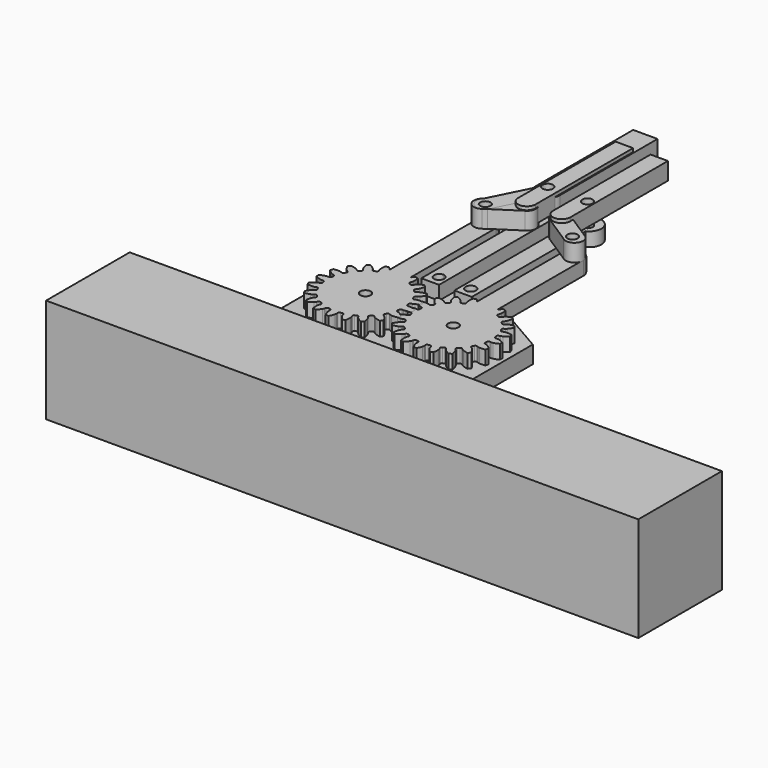
from build123d import *

# Parameters (mm, degrees)
BOX_W                      = 170
BOX_H                      = 30
BOX_DEPTH                  = 30
CYLINDER002_R              = 1.5
CYLINDER002_DEPTH          = 15
CYLINDER_R                 = 1.5
CYLINDER_DEPTH             = 15
EXTRUDE002_DEPTH           = 5
CYLINDER004_R              = 1.5
CYLINDER004_DEPTH          = 20
CYLINDER003_R              = 1.5
CYLINDER003_DEPTH          = 15
EXTRUDE005_DEPTH           = 5
EXTRUDE004_DEPTH           = 4
EXTRUDE007_DEPTH           = 5
EXTRUDE006_DEPTH           = 5
EXTRUDE003_DEPTH           = 4
CYLINDER001_R              = 1.5
CYLINDER001_DEPTH          = 15
EXTRUDE_DEPTH              = 4
CYLINDER005_R              = 3.5
CYLINDER005_DEPTH          = 4
CYLINDER007_R              = 1.5
CYLINDER007_DEPTH          = 20
CYLINDER008_R              = 3.5
CYLINDER008_DEPTH          = 4
CYLINDER006_R              = 1.5
CYLINDER006_DEPTH          = 15
EXTRUDE010_DEPTH           = 4
CUT022_PLACEMENT_ANGLE     = 180
SKETCH006_R                = 1.5
EXTRUDE008_DEPTH           = 5
EXTRUDE008_PLACEMENT_ANGLE = 4
SKETCH007_R                = 1.65
EXTRUDE009_DEPTH           = 5


with BuildPart() as cube:
    # Box → Box (new body)
    with BuildSketch(Plane(origin=(-41, -69, 0), x_dir=(1, 0, 0), z_dir=(0, 0, 1))):
        with Locations((85, 15)):
            Rectangle(BOX_W, BOX_H)
    extrude(amount=BOX_DEPTH)


with BuildPart() as cylinder002:
    # Cylinder002 → Cylinder002 (new body)
    with BuildSketch(Plane(origin=(4.5, 26.5, -2), x_dir=(1, 0, 0), z_dir=(0, 0, 1))):
        Circle(CYLINDER002_R)
    extrude(amount=CYLINDER002_DEPTH)


with BuildPart() as part_mirroring007:
    # Part__Mirroring007: instance of Cylinder002
    add(cylinder002.part.mirror(Plane(origin=(0, 0, 0), x_dir=(0, -1, 0), z_dir=(1, 0, 0))))


with BuildPart() as hueco_tornillo:
    # Cylinder → Cylinder (new body)
    with BuildSketch(Plane(origin=(12.5, 10, -1), x_dir=(1, 0, 0), z_dir=(0, 0, 1))):
        Circle(CYLINDER_R)
    extrude(amount=CYLINDER_DEPTH)


with BuildPart() as part_mirroring005:
    # Part__Mirroring005: instance of Hueco tornillo
    add(hueco_tornillo.part.mirror(Plane(origin=(0, 0, 0), x_dir=(0, -1, 0), z_dir=(1, 0, 0))))


with BuildPart() as obj1:
    # Sketch001 → Extrude002 (new body)
    with BuildSketch(Plane.XY):
        Polygon((-27.5, -20), (-27.5, 20), (-10, 30.10363), (10, 30.10363), (27.5, 20), (27.5, -20), align=None)
    extrude(amount=EXTRUDE002_DEPTH)

    # Cut001: cut Hueco tornillo
    add(hueco_tornillo.part, mode=Mode.SUBTRACT)

    # Cut002: cut Part__Mirroring005
    add(part_mirroring005.part, mode=Mode.SUBTRACT)

    # Cut005: cut Cylinder002
    add(cylinder002.part, mode=Mode.SUBTRACT)

    # Cut007: cut Part__Mirroring007
    add(part_mirroring007.part, mode=Mode.SUBTRACT)


with BuildPart() as tornillo001:
    # Cylinder004 → Cylinder004 (new body)
    with BuildSketch(Plane(origin=(5.7, 66.9, 2), x_dir=(1, 0, 0), z_dir=(0, 0, 1))):
        Circle(CYLINDER004_R)
    extrude(amount=CYLINDER004_DEPTH)


with BuildPart() as tornillo:
    # Cylinder003 → Cylinder003 (new body)
    with BuildSketch(Plane(origin=(12.5, 53, 4), x_dir=(1, 0, 0), z_dir=(0, 0, 1))):
        Circle(CYLINDER003_R)
    extrude(amount=CYLINDER003_DEPTH)


with BuildPart() as obj2:
    # Sketch003 → Extrude005 (new body)
    with BuildSketch(Plane.XY.offset(12)):
        with BuildLine():
            Line((6.265841, 59.984875), (14.149073, 54.864849))
            ThreePointArc((11.315443, 50.797342), (15.05131, 51.215528), (14.149073, 54.864849))
            Line((3.432211, 55.917368), (11.315443, 50.797342))
            ThreePointArc((6.265841, 59.984875), (2.529975, 59.566689), (3.432211, 55.917368))
        make_face()
    extrude(amount=EXTRUDE005_DEPTH)


with BuildPart() as obj2_1:
    # Extrude005 placement: moved
    add(obj2.part.moved(Location((0.18891, 0.183964, -3))))


with BuildPart() as obj3:
    # Cut010 base: copy of obj2
    add(obj2_1.part)

    # Cut010: cut Tornillo
    add(tornillo.part, mode=Mode.SUBTRACT)

    # Cut013: cut Tornillo001
    add(tornillo001.part, mode=Mode.SUBTRACT)


with BuildPart() as part_mirroring009:
    # Part__Mirroring009: instance of Tornillo001
    add(tornillo001.part.mirror(Plane(origin=(0, 0, 0), x_dir=(0, -1, 0), z_dir=(1, 0, 0))))


with BuildPart() as obj4:
    # Sketch002 → Extrude004 (new body)
    with BuildSketch(Plane.XY):
        with BuildLine():
            Line((50.695321, 0), (50.695321, 45))
            ThreePointArc((55.695321, 45), (53.195321, 47.499985), (50.695321, 45))
            Line((55.695321, 0), (55.695321, 45))
            Line((50.695321, 0), (55.695321, 0))
        make_face()
    extrude(amount=EXTRUDE004_DEPTH)


with BuildPart() as obj4_1:
    # Extrude004 placement: moved
    add(obj4.part.moved(Location((-48.5, 23.5, 5))))


with BuildPart() as obj5:
    # Part__Mirroring002: instance of obj4
    add(obj4_1.part.mirror(Plane(origin=(0, 0, 0), x_dir=(0, -1, 0), z_dir=(1, 0, 0))))

    # Cut008: cut Part__Mirroring007
    add(part_mirroring007.part, mode=Mode.SUBTRACT)

    # Cut016: cut Part__Mirroring009
    add(part_mirroring009.part, mode=Mode.SUBTRACT)


with BuildPart() as obj6:
    # Sketch005 → Extrude007 (new body)
    with BuildSketch(Plane.XY.offset(12)):
        with BuildLine():
            Line((6.265841, 59.984875), (14.149073, 54.864849))
            ThreePointArc((11.315443, 50.797342), (15.05131, 51.215528), (14.149073, 54.864849))
            Line((3.432211, 55.917368), (11.315443, 50.797342))
            ThreePointArc((6.265841, 59.984875), (2.529975, 59.566689), (3.432211, 55.917368))
        make_face()
    extrude(amount=EXTRUDE007_DEPTH)


with BuildPart() as obj6_1:
    # Extrude007 placement: moved
    add(obj6.part.moved(Location((0.18891, 0.183964, -3))))


with BuildPart() as obj7:
    # Sketch004 → Extrude006 (new body)
    with BuildSketch(Plane.XY):
        with BuildLine():
            Line((-2.5, 17.5), (2.5, 17.5))
            Line((2.5, 17.5), (2.5, -17.5))
            ThreePointArc((-2.5, -17.5), (0, -20), (2.5, -17.5))
            Line((-2.5, -17.5), (-2.5, 17.5))
        make_face()
    extrude(amount=EXTRUDE006_DEPTH)


with BuildPart() as obj7_1:
    # Extrude006 placement: moved
    add(obj7.part.moved(Location((5, 76, 10))))

    # Cut: cut obj6
    add(obj6_1.part, mode=Mode.SUBTRACT)


with BuildPart() as obj8:
    # Part__Mirroring004: instance of obj7
    add(obj7_1.part.mirror(Plane(origin=(0, 0, 0), x_dir=(0, -1, 0), z_dir=(1, 0, 0))))

    # Cut018: cut Part__Mirroring009
    add(part_mirroring009.part, mode=Mode.SUBTRACT)


with BuildPart() as obj9:
    # Sketch → Extrude003 (new body)
    with BuildSketch(Plane.XY):
        with BuildLine():
            Line((71.932891, 0), (71.932891, 40))
            ThreePointArc((77.932891, 40), (74.932891, 43), (71.932891, 40))
            Line((77.932891, 0), (77.932891, 40))
            Line((71.932891, 0), (77.932891, 0))
        make_face()
    extrude(amount=EXTRUDE003_DEPTH)


with BuildPart() as obj9_1:
    # Extrude003 placement: moved
    add(obj9.part.moved(Location((-62.5, 13, 5))))


with BuildPart() as fal_der_tornillo:
    # Cut009 base: copy of obj9
    add(obj9_1.part)

    # Cut009: cut Tornillo
    add(tornillo.part, mode=Mode.SUBTRACT)


with BuildPart() as cylinder:
    # Cylinder001 → Cylinder001 (new body)
    with BuildSketch(Plane(origin=(12.5, 10, -1), x_dir=(1, 0, 0), z_dir=(0, 0, 1))):
        Circle(CYLINDER001_R)
    extrude(amount=CYLINDER001_DEPTH)


with BuildPart() as extrude_body:
    # InvoluteGear → Extrude (new body)
    with BuildSketch(Plane.XY):
        with BuildLine():
            Line((11.346894, -1.063398), (11.717318, -1.097171))
            add(Edge.make_bspline(
                [(11.717318, -1.097171), (11.776361, -1.099058), (11.954079, -1.097525), (12.250595, -1.033325)],
                knots=[0, 0, 0, 0, 1, 1, 1, 1], degree=3))
            add(Edge.make_bspline(
                [(12.250595, -1.033325), (12.605293, -0.955347), (13.115728, -0.788419), (13.744527, -0.433709)],
                knots=[0, 0, 0, 0, 1, 1, 1, 1], degree=3))
            ThreePointArc((13.744527, -0.433709), (13.751369, 0), (13.744527, 0.433709))
            add(Edge.make_bspline(
                [(13.744527, 0.433709), (13.115728, 0.788419), (12.605293, 0.955347), (12.250595, 1.033325)],
                knots=[0, 0, 0, 0, 1, 1, 1, 1], degree=3))
            add(Edge.make_bspline(
                [(12.250595, 1.033325), (11.954079, 1.097525), (11.776361, 1.099058), (11.717318, 1.097171)],
                knots=[0, 0, 0, 0, 1, 1, 1, 1], degree=3))
            Line((11.717318, 1.097171), (11.346894, 1.063398))
            ThreePointArc((11.346894, 1.063398), (11.011703, 1.162977), (10.838693, 1.466846))
            ThreePointArc((10.838693, 1.466846), (10.802841, 1.711002), (10.76149, 1.954287))
            ThreePointArc((10.76149, 1.954287), (10.832131, 2.296747), (11.120145, 2.495031))
            Line((11.120145, 2.495031), (11.482876, 2.577378))
            add(Edge.make_bspline(
                [(11.482876, 2.577378), (11.539612, 2.593829), (11.708158, 2.650205), (11.970323, 2.802892)],
                knots=[0, 0, 0, 0, 1, 1, 1, 1], degree=3))
            add(Edge.make_bspline(
                [(11.970323, 2.802892), (12.283565, 2.986661), (12.717433, 3.303152), (13.205845, 3.83481)],
                knots=[0, 0, 0, 0, 1, 1, 1, 1], degree=3))
            ThreePointArc((13.205845, 3.83481), (13.078329, 4.249407), (12.937798, 4.659774))
            add(Edge.make_bspline(
                [(12.937798, 4.659774), (12.230164, 4.802814), (11.693128, 4.803839), (11.331693, 4.768393)],
                knots=[0, 0, 0, 0, 1, 1, 1, 1], degree=3))
            add(Edge.make_bspline(
                [(11.331693, 4.768393), (11.029851, 4.737822), (10.860357, 4.684362), (10.804787, 4.664322)],
                knots=[0, 0, 0, 0, 1, 1, 1, 1], degree=3))
            Line((10.804787, 4.664322), (10.462929, 4.517735))
            ThreePointArc((10.462929, 4.517735), (10.113372, 4.50886), (9.854929, 4.744394))
            ThreePointArc((9.854929, 4.744394), (9.745384, 4.965521), (9.630878, 5.18412))
            ThreePointArc((9.630878, 5.18412), (9.592235, 5.531648), (9.80488, 5.809229))
            Line((9.80488, 5.809229), (10.124411, 5.999636))
            add(Edge.make_bspline(
                [(10.124411, 5.999636), (10.173286, 6.032814), (10.316162, 6.138515), (10.518313, 6.364742)],
                knots=[0, 0, 0, 0, 1, 1, 1, 1], degree=3))
            add(Edge.make_bspline(
                [(10.518313, 6.364742), (10.759435, 6.636313), (11.074268, 7.071387), (11.374484, 7.727952)],
                knots=[0, 0, 0, 0, 1, 1, 1, 1], degree=3))
            ThreePointArc((11.374484, 7.727952), (11.125091, 8.082852), (10.864628, 8.429708))
            add(Edge.make_bspline(
                [(10.864628, 8.429708), (10.147426, 8.347076), (9.636357, 8.182097), (9.303566, 8.036697)],
                knots=[0, 0, 0, 0, 1, 1, 1, 1], degree=3))
            add(Edge.make_bspline(
                [(9.303566, 8.036697), (9.025944, 7.914348), (8.881266, 7.811128), (8.834608, 7.774897)],
                knots=[0, 0, 0, 0, 1, 1, 1, 1], degree=3))
            Line((8.834608, 7.774897), (8.55478, 7.529844))
            ThreePointArc((8.55478, 7.529844), (8.225074, 7.413384), (7.906496, 7.557528))
            ThreePointArc((7.906496, 7.557528), (7.73398, 7.73398), (7.557528, 7.906496))
            ThreePointArc((7.557528, 7.906496), (7.413384, 8.225074), (7.529844, 8.55478))
            Line((7.529844, 8.55478), (7.774897, 8.834608))
            add(Edge.make_bspline(
                [(7.774897, 8.834608), (7.811128, 8.881266), (7.914348, 9.025944), (8.036697, 9.303566)],
                knots=[0, 0, 0, 0, 1, 1, 1, 1], degree=3))
            add(Edge.make_bspline(
                [(8.036697, 9.303566), (8.182097, 9.636357), (8.347076, 10.147426), (8.429708, 10.864628)],
                knots=[0, 0, 0, 0, 1, 1, 1, 1], degree=3))
            ThreePointArc((8.429708, 10.864628), (8.082852, 11.125091), (7.727952, 11.374484))
            add(Edge.make_bspline(
                [(7.727952, 11.374484), (7.071387, 11.074268), (6.636313, 10.759435), (6.364742, 10.518313)],
                knots=[0, 0, 0, 0, 1, 1, 1, 1], degree=3))
            add(Edge.make_bspline(
                [(6.364742, 10.518313), (6.138515, 10.316162), (6.032814, 10.173286), (5.999636, 10.124411)],
                knots=[0, 0, 0, 0, 1, 1, 1, 1], degree=3))
            Line((5.999636, 10.124411), (5.809229, 9.80488))
            ThreePointArc((5.809229, 9.80488), (5.531648, 9.592235), (5.18412, 9.630878))
            ThreePointArc((5.18412, 9.630878), (4.965521, 9.745384), (4.744394, 9.854929))
            ThreePointArc((4.744394, 9.854929), (4.50886, 10.113372), (4.517735, 10.462929))
            Line((4.517735, 10.462929), (4.664322, 10.804787))
            add(Edge.make_bspline(
                [(4.664322, 10.804787), (4.684362, 10.860357), (4.737822, 11.029851), (4.768393, 11.331693)],
                knots=[0, 0, 0, 0, 1, 1, 1, 1], degree=3))
            add(Edge.make_bspline(
                [(4.768393, 11.331693), (4.803839, 11.693128), (4.802814, 12.230164), (4.659774, 12.937798)],
                knots=[0, 0, 0, 0, 1, 1, 1, 1], degree=3))
            ThreePointArc((4.659774, 12.937798), (4.249407, 13.078329), (3.83481, 13.205845))
            add(Edge.make_bspline(
                [(3.83481, 13.205845), (3.303152, 12.717433), (2.986661, 12.283565), (2.802892, 11.970323)],
                knots=[0, 0, 0, 0, 1, 1, 1, 1], degree=3))
            add(Edge.make_bspline(
                [(2.802892, 11.970323), (2.650205, 11.708158), (2.593829, 11.539612), (2.577378, 11.482876)],
                knots=[0, 0, 0, 0, 1, 1, 1, 1], degree=3))
            Line((2.577378, 11.482876), (2.495031, 11.120145))
            ThreePointArc((2.495031, 11.120145), (2.296747, 10.832131), (1.954287, 10.76149))
            ThreePointArc((1.954287, 10.76149), (1.711002, 10.802841), (1.466846, 10.838693))
            ThreePointArc((1.466846, 10.838693), (1.162977, 11.011703), (1.063398, 11.346894))
            Line((1.063398, 11.346894), (1.097171, 11.717318))
            add(Edge.make_bspline(
                [(1.097171, 11.717318), (1.099058, 11.776361), (1.097525, 11.954079), (1.033325, 12.250595)],
                knots=[0, 0, 0, 0, 1, 1, 1, 1], degree=3))
            add(Edge.make_bspline(
                [(1.033325, 12.250595), (0.955347, 12.605293), (0.788419, 13.115728), (0.433709, 13.744527)],
                knots=[0, 0, 0, 0, 1, 1, 1, 1], degree=3))
            ThreePointArc((0.433709, 13.744527), (0, 13.751369), (-0.433709, 13.744527))
            add(Edge.make_bspline(
                [(-0.433709, 13.744527), (-0.788419, 13.115728), (-0.955347, 12.605293), (-1.033325, 12.250595)],
                knots=[0, 0, 0, 0, 1, 1, 1, 1], degree=3))
            add(Edge.make_bspline(
                [(-1.033325, 12.250595), (-1.097525, 11.954079), (-1.099058, 11.776361), (-1.097171, 11.717318)],
                knots=[0, 0, 0, 0, 1, 1, 1, 1], degree=3))
            Line((-1.097171, 11.717318), (-1.063398, 11.346894))
            ThreePointArc((-1.063398, 11.346894), (-1.162977, 11.011703), (-1.466846, 10.838693))
            ThreePointArc((-1.466846, 10.838693), (-1.711002, 10.802841), (-1.954287, 10.76149))
            ThreePointArc((-1.954287, 10.76149), (-2.296747, 10.832131), (-2.495031, 11.120145))
            Line((-2.495031, 11.120145), (-2.577378, 11.482876))
            add(Edge.make_bspline(
                [(-2.577378, 11.482876), (-2.593829, 11.539612), (-2.650205, 11.708158), (-2.802892, 11.970323)],
                knots=[0, 0, 0, 0, 1, 1, 1, 1], degree=3))
            add(Edge.make_bspline(
                [(-2.802892, 11.970323), (-2.986661, 12.283565), (-3.303152, 12.717433), (-3.83481, 13.205845)],
                knots=[0, 0, 0, 0, 1, 1, 1, 1], degree=3))
            ThreePointArc((-3.83481, 13.205845), (-4.249407, 13.078329), (-4.659774, 12.937798))
            add(Edge.make_bspline(
                [(-4.659774, 12.937798), (-4.802814, 12.230164), (-4.803839, 11.693128), (-4.768393, 11.331693)],
                knots=[0, 0, 0, 0, 1, 1, 1, 1], degree=3))
            add(Edge.make_bspline(
                [(-4.768393, 11.331693), (-4.737822, 11.029851), (-4.684362, 10.860357), (-4.664322, 10.804787)],
                knots=[0, 0, 0, 0, 1, 1, 1, 1], degree=3))
            Line((-4.664322, 10.804787), (-4.517735, 10.462929))
            ThreePointArc((-4.517735, 10.462929), (-4.50886, 10.113372), (-4.744394, 9.854929))
            ThreePointArc((-4.744394, 9.854929), (-4.965521, 9.745384), (-5.18412, 9.630878))
            ThreePointArc((-5.18412, 9.630878), (-5.531648, 9.592235), (-5.809229, 9.80488))
            Line((-5.809229, 9.80488), (-5.999636, 10.124411))
            add(Edge.make_bspline(
                [(-5.999636, 10.124411), (-6.032814, 10.173286), (-6.138515, 10.316162), (-6.364742, 10.518313)],
                knots=[0, 0, 0, 0, 1, 1, 1, 1], degree=3))
            add(Edge.make_bspline(
                [(-6.364742, 10.518313), (-6.636313, 10.759435), (-7.071387, 11.074268), (-7.727952, 11.374484)],
                knots=[0, 0, 0, 0, 1, 1, 1, 1], degree=3))
            ThreePointArc((-7.727952, 11.374484), (-8.082852, 11.125091), (-8.429708, 10.864628))
            add(Edge.make_bspline(
                [(-8.429708, 10.864628), (-8.347076, 10.147426), (-8.182097, 9.636357), (-8.036697, 9.303566)],
                knots=[0, 0, 0, 0, 1, 1, 1, 1], degree=3))
            add(Edge.make_bspline(
                [(-8.036697, 9.303566), (-7.914348, 9.025944), (-7.811128, 8.881266), (-7.774897, 8.834608)],
                knots=[0, 0, 0, 0, 1, 1, 1, 1], degree=3))
            Line((-7.774897, 8.834608), (-7.529844, 8.55478))
            ThreePointArc((-7.529844, 8.55478), (-7.413384, 8.225074), (-7.557528, 7.906496))
            ThreePointArc((-7.557528, 7.906496), (-7.73398, 7.73398), (-7.906496, 7.557528))
            ThreePointArc((-7.906496, 7.557528), (-8.225074, 7.413384), (-8.55478, 7.529844))
            Line((-8.55478, 7.529844), (-8.834608, 7.774897))
            add(Edge.make_bspline(
                [(-8.834608, 7.774897), (-8.881266, 7.811128), (-9.025944, 7.914348), (-9.303566, 8.036697)],
                knots=[0, 0, 0, 0, 1, 1, 1, 1], degree=3))
            add(Edge.make_bspline(
                [(-9.303566, 8.036697), (-9.636357, 8.182097), (-10.147426, 8.347076), (-10.864628, 8.429708)],
                knots=[0, 0, 0, 0, 1, 1, 1, 1], degree=3))
            ThreePointArc((-10.864628, 8.429708), (-11.125091, 8.082852), (-11.374484, 7.727952))
            add(Edge.make_bspline(
                [(-11.374484, 7.727952), (-11.074268, 7.071387), (-10.759435, 6.636313), (-10.518313, 6.364742)],
                knots=[0, 0, 0, 0, 1, 1, 1, 1], degree=3))
            add(Edge.make_bspline(
                [(-10.518313, 6.364742), (-10.316162, 6.138515), (-10.173286, 6.032814), (-10.124411, 5.999636)],
                knots=[0, 0, 0, 0, 1, 1, 1, 1], degree=3))
            Line((-10.124411, 5.999636), (-9.80488, 5.809229))
            ThreePointArc((-9.80488, 5.809229), (-9.592235, 5.531648), (-9.630878, 5.18412))
            ThreePointArc((-9.630878, 5.18412), (-9.745384, 4.965521), (-9.854929, 4.744394))
            ThreePointArc((-9.854929, 4.744394), (-10.113372, 4.50886), (-10.462929, 4.517735))
            Line((-10.462929, 4.517735), (-10.804787, 4.664322))
            add(Edge.make_bspline(
                [(-10.804787, 4.664322), (-10.860357, 4.684362), (-11.029851, 4.737822), (-11.331693, 4.768393)],
                knots=[0, 0, 0, 0, 1, 1, 1, 1], degree=3))
            add(Edge.make_bspline(
                [(-11.331693, 4.768393), (-11.693128, 4.803839), (-12.230164, 4.802814), (-12.937798, 4.659774)],
                knots=[0, 0, 0, 0, 1, 1, 1, 1], degree=3))
            ThreePointArc((-12.937798, 4.659774), (-13.078329, 4.249407), (-13.205845, 3.83481))
            add(Edge.make_bspline(
                [(-13.205845, 3.83481), (-12.717433, 3.303152), (-12.283565, 2.986661), (-11.970323, 2.802892)],
                knots=[0, 0, 0, 0, 1, 1, 1, 1], degree=3))
            add(Edge.make_bspline(
                [(-11.970323, 2.802892), (-11.708158, 2.650205), (-11.539612, 2.593829), (-11.482876, 2.577378)],
                knots=[0, 0, 0, 0, 1, 1, 1, 1], degree=3))
            Line((-11.482876, 2.577378), (-11.120145, 2.495031))
            ThreePointArc((-11.120145, 2.495031), (-10.832131, 2.296747), (-10.76149, 1.954287))
            ThreePointArc((-10.76149, 1.954287), (-10.802841, 1.711002), (-10.838693, 1.466846))
            ThreePointArc((-10.838693, 1.466846), (-11.011703, 1.162977), (-11.346894, 1.063398))
            Line((-11.346894, 1.063398), (-11.717318, 1.097171))
            add(Edge.make_bspline(
                [(-11.717318, 1.097171), (-11.776361, 1.099058), (-11.954079, 1.097525), (-12.250595, 1.033325)],
                knots=[0, 0, 0, 0, 1, 1, 1, 1], degree=3))
            add(Edge.make_bspline(
                [(-12.250595, 1.033325), (-12.605293, 0.955347), (-13.115728, 0.788419), (-13.744527, 0.433709)],
                knots=[0, 0, 0, 0, 1, 1, 1, 1], degree=3))
            ThreePointArc((-13.744527, 0.433709), (-13.751369, 0), (-13.744527, -0.433709))
            add(Edge.make_bspline(
                [(-13.744527, -0.433709), (-13.115728, -0.788419), (-12.605293, -0.955347), (-12.250595, -1.033325)],
                knots=[0, 0, 0, 0, 1, 1, 1, 1], degree=3))
            add(Edge.make_bspline(
                [(-12.250595, -1.033325), (-11.954079, -1.097525), (-11.776361, -1.099058), (-11.717318, -1.097171)],
                knots=[0, 0, 0, 0, 1, 1, 1, 1], degree=3))
            Line((-11.717318, -1.097171), (-11.346894, -1.063398))
            ThreePointArc((-11.346894, -1.063398), (-11.011703, -1.162977), (-10.838693, -1.466846))
            ThreePointArc((-10.838693, -1.466846), (-10.802841, -1.711002), (-10.76149, -1.954287))
            ThreePointArc((-10.76149, -1.954287), (-10.832131, -2.296747), (-11.120145, -2.495031))
            Line((-11.120145, -2.495031), (-11.482876, -2.577378))
            add(Edge.make_bspline(
                [(-11.482876, -2.577378), (-11.539612, -2.593829), (-11.708158, -2.650205), (-11.970323, -2.802892)],
                knots=[0, 0, 0, 0, 1, 1, 1, 1], degree=3))
            add(Edge.make_bspline(
                [(-11.970323, -2.802892), (-12.283565, -2.986661), (-12.717433, -3.303152), (-13.205845, -3.83481)],
                knots=[0, 0, 0, 0, 1, 1, 1, 1], degree=3))
            ThreePointArc((-13.205845, -3.83481), (-13.078329, -4.249407), (-12.937798, -4.659774))
            add(Edge.make_bspline(
                [(-12.937798, -4.659774), (-12.230164, -4.802814), (-11.693128, -4.803839), (-11.331693, -4.768393)],
                knots=[0, 0, 0, 0, 1, 1, 1, 1], degree=3))
            add(Edge.make_bspline(
                [(-11.331693, -4.768393), (-11.029851, -4.737822), (-10.860357, -4.684362), (-10.804787, -4.664322)],
                knots=[0, 0, 0, 0, 1, 1, 1, 1], degree=3))
            Line((-10.804787, -4.664322), (-10.462929, -4.517735))
            ThreePointArc((-10.462929, -4.517735), (-10.113372, -4.50886), (-9.854929, -4.744394))
            ThreePointArc((-9.854929, -4.744394), (-9.745384, -4.965521), (-9.630878, -5.18412))
            ThreePointArc((-9.630878, -5.18412), (-9.592235, -5.531648), (-9.80488, -5.809229))
            Line((-9.80488, -5.809229), (-10.124411, -5.999636))
            add(Edge.make_bspline(
                [(-10.124411, -5.999636), (-10.173286, -6.032814), (-10.316162, -6.138515), (-10.518313, -6.364742)],
                knots=[0, 0, 0, 0, 1, 1, 1, 1], degree=3))
            add(Edge.make_bspline(
                [(-10.518313, -6.364742), (-10.759435, -6.636313), (-11.074268, -7.071387), (-11.374484, -7.727952)],
                knots=[0, 0, 0, 0, 1, 1, 1, 1], degree=3))
            ThreePointArc((-11.374484, -7.727952), (-11.125091, -8.082852), (-10.864628, -8.429708))
            add(Edge.make_bspline(
                [(-10.864628, -8.429708), (-10.147426, -8.347076), (-9.636357, -8.182097), (-9.303566, -8.036697)],
                knots=[0, 0, 0, 0, 1, 1, 1, 1], degree=3))
            add(Edge.make_bspline(
                [(-9.303566, -8.036697), (-9.025944, -7.914348), (-8.881266, -7.811128), (-8.834608, -7.774897)],
                knots=[0, 0, 0, 0, 1, 1, 1, 1], degree=3))
            Line((-8.834608, -7.774897), (-8.55478, -7.529844))
            ThreePointArc((-8.55478, -7.529844), (-8.225074, -7.413384), (-7.906496, -7.557528))
            ThreePointArc((-7.906496, -7.557528), (-7.73398, -7.73398), (-7.557528, -7.906496))
            ThreePointArc((-7.557528, -7.906496), (-7.413384, -8.225074), (-7.529844, -8.55478))
            Line((-7.529844, -8.55478), (-7.774897, -8.834608))
            add(Edge.make_bspline(
                [(-7.774897, -8.834608), (-7.811128, -8.881266), (-7.914348, -9.025944), (-8.036697, -9.303566)],
                knots=[0, 0, 0, 0, 1, 1, 1, 1], degree=3))
            add(Edge.make_bspline(
                [(-8.036697, -9.303566), (-8.182097, -9.636357), (-8.347076, -10.147426), (-8.429708, -10.864628)],
                knots=[0, 0, 0, 0, 1, 1, 1, 1], degree=3))
            ThreePointArc((-8.429708, -10.864628), (-8.082852, -11.125091), (-7.727952, -11.374484))
            add(Edge.make_bspline(
                [(-7.727952, -11.374484), (-7.071387, -11.074268), (-6.636313, -10.759435), (-6.364742, -10.518313)],
                knots=[0, 0, 0, 0, 1, 1, 1, 1], degree=3))
            add(Edge.make_bspline(
                [(-6.364742, -10.518313), (-6.138515, -10.316162), (-6.032814, -10.173286), (-5.999636, -10.124411)],
                knots=[0, 0, 0, 0, 1, 1, 1, 1], degree=3))
            Line((-5.999636, -10.124411), (-5.809229, -9.80488))
            ThreePointArc((-5.809229, -9.80488), (-5.531648, -9.592235), (-5.18412, -9.630878))
            ThreePointArc((-5.18412, -9.630878), (-4.965521, -9.745384), (-4.744394, -9.854929))
            ThreePointArc((-4.744394, -9.854929), (-4.50886, -10.113372), (-4.517735, -10.462929))
            Line((-4.517735, -10.462929), (-4.664322, -10.804787))
            add(Edge.make_bspline(
                [(-4.664322, -10.804787), (-4.684362, -10.860357), (-4.737822, -11.029851), (-4.768393, -11.331693)],
                knots=[0, 0, 0, 0, 1, 1, 1, 1], degree=3))
            add(Edge.make_bspline(
                [(-4.768393, -11.331693), (-4.803839, -11.693128), (-4.802814, -12.230164), (-4.659774, -12.937798)],
                knots=[0, 0, 0, 0, 1, 1, 1, 1], degree=3))
            ThreePointArc((-4.659774, -12.937798), (-4.249407, -13.078329), (-3.83481, -13.205845))
            add(Edge.make_bspline(
                [(-3.83481, -13.205845), (-3.303152, -12.717433), (-2.986661, -12.283565), (-2.802892, -11.970323)],
                knots=[0, 0, 0, 0, 1, 1, 1, 1], degree=3))
            add(Edge.make_bspline(
                [(-2.802892, -11.970323), (-2.650205, -11.708158), (-2.593829, -11.539612), (-2.577378, -11.482876)],
                knots=[0, 0, 0, 0, 1, 1, 1, 1], degree=3))
            Line((-2.577378, -11.482876), (-2.495031, -11.120145))
            ThreePointArc((-2.495031, -11.120145), (-2.296747, -10.832131), (-1.954287, -10.76149))
            ThreePointArc((-1.954287, -10.76149), (-1.711002, -10.802841), (-1.466846, -10.838693))
            ThreePointArc((-1.466846, -10.838693), (-1.162977, -11.011703), (-1.063398, -11.346894))
            Line((-1.063398, -11.346894), (-1.097171, -11.717318))
            add(Edge.make_bspline(
                [(-1.097171, -11.717318), (-1.099058, -11.776361), (-1.097525, -11.954079), (-1.033325, -12.250595)],
                knots=[0, 0, 0, 0, 1, 1, 1, 1], degree=3))
            add(Edge.make_bspline(
                [(-1.033325, -12.250595), (-0.955347, -12.605293), (-0.788419, -13.115728), (-0.433709, -13.744527)],
                knots=[0, 0, 0, 0, 1, 1, 1, 1], degree=3))
            ThreePointArc((-0.433709, -13.744527), (0, -13.751369), (0.433709, -13.744527))
            add(Edge.make_bspline(
                [(0.433709, -13.744527), (0.788419, -13.115728), (0.955347, -12.605293), (1.033325, -12.250595)],
                knots=[0, 0, 0, 0, 1, 1, 1, 1], degree=3))
            add(Edge.make_bspline(
                [(1.033325, -12.250595), (1.097525, -11.954079), (1.099058, -11.776361), (1.097171, -11.717318)],
                knots=[0, 0, 0, 0, 1, 1, 1, 1], degree=3))
            Line((1.097171, -11.717318), (1.063398, -11.346894))
            ThreePointArc((1.063398, -11.346894), (1.162977, -11.011703), (1.466846, -10.838693))
            ThreePointArc((1.466846, -10.838693), (1.711002, -10.802841), (1.954287, -10.76149))
            ThreePointArc((1.954287, -10.76149), (2.296747, -10.832131), (2.495031, -11.120145))
            Line((2.495031, -11.120145), (2.577378, -11.482876))
            add(Edge.make_bspline(
                [(2.577378, -11.482876), (2.593829, -11.539612), (2.650205, -11.708158), (2.802892, -11.970323)],
                knots=[0, 0, 0, 0, 1, 1, 1, 1], degree=3))
            add(Edge.make_bspline(
                [(2.802892, -11.970323), (2.986661, -12.283565), (3.303152, -12.717433), (3.83481, -13.205845)],
                knots=[0, 0, 0, 0, 1, 1, 1, 1], degree=3))
            ThreePointArc((3.83481, -13.205845), (4.249407, -13.078329), (4.659774, -12.937798))
            add(Edge.make_bspline(
                [(4.659774, -12.937798), (4.802814, -12.230164), (4.803839, -11.693128), (4.768393, -11.331693)],
                knots=[0, 0, 0, 0, 1, 1, 1, 1], degree=3))
            add(Edge.make_bspline(
                [(4.768393, -11.331693), (4.737822, -11.029851), (4.684362, -10.860357), (4.664322, -10.804787)],
                knots=[0, 0, 0, 0, 1, 1, 1, 1], degree=3))
            Line((4.664322, -10.804787), (4.517735, -10.462929))
            ThreePointArc((4.517735, -10.462929), (4.50886, -10.113372), (4.744394, -9.854929))
            ThreePointArc((4.744394, -9.854929), (4.965521, -9.745384), (5.18412, -9.630878))
            ThreePointArc((5.18412, -9.630878), (5.531648, -9.592235), (5.809229, -9.80488))
            Line((5.809229, -9.80488), (5.999636, -10.124411))
            add(Edge.make_bspline(
                [(5.999636, -10.124411), (6.032814, -10.173286), (6.138515, -10.316162), (6.364742, -10.518313)],
                knots=[0, 0, 0, 0, 1, 1, 1, 1], degree=3))
            add(Edge.make_bspline(
                [(6.364742, -10.518313), (6.636313, -10.759435), (7.071387, -11.074268), (7.727952, -11.374484)],
                knots=[0, 0, 0, 0, 1, 1, 1, 1], degree=3))
            ThreePointArc((7.727952, -11.374484), (8.082852, -11.125091), (8.429708, -10.864628))
            add(Edge.make_bspline(
                [(8.429708, -10.864628), (8.347076, -10.147426), (8.182097, -9.636357), (8.036697, -9.303566)],
                knots=[0, 0, 0, 0, 1, 1, 1, 1], degree=3))
            add(Edge.make_bspline(
                [(8.036697, -9.303566), (7.914348, -9.025944), (7.811128, -8.881266), (7.774897, -8.834608)],
                knots=[0, 0, 0, 0, 1, 1, 1, 1], degree=3))
            Line((7.774897, -8.834608), (7.529844, -8.55478))
            ThreePointArc((7.529844, -8.55478), (7.413384, -8.225074), (7.557528, -7.906496))
            ThreePointArc((7.557528, -7.906496), (7.73398, -7.73398), (7.906496, -7.557528))
            ThreePointArc((7.906496, -7.557528), (8.225074, -7.413384), (8.55478, -7.529844))
            Line((8.55478, -7.529844), (8.834608, -7.774897))
            add(Edge.make_bspline(
                [(8.834608, -7.774897), (8.881266, -7.811128), (9.025944, -7.914348), (9.303566, -8.036697)],
                knots=[0, 0, 0, 0, 1, 1, 1, 1], degree=3))
            add(Edge.make_bspline(
                [(9.303566, -8.036697), (9.636357, -8.182097), (10.147426, -8.347076), (10.864628, -8.429708)],
                knots=[0, 0, 0, 0, 1, 1, 1, 1], degree=3))
            ThreePointArc((10.864628, -8.429708), (11.125091, -8.082852), (11.374484, -7.727952))
            add(Edge.make_bspline(
                [(11.374484, -7.727952), (11.074268, -7.071387), (10.759435, -6.636313), (10.518313, -6.364742)],
                knots=[0, 0, 0, 0, 1, 1, 1, 1], degree=3))
            add(Edge.make_bspline(
                [(10.518313, -6.364742), (10.316162, -6.138515), (10.173286, -6.032814), (10.124411, -5.999636)],
                knots=[0, 0, 0, 0, 1, 1, 1, 1], degree=3))
            Line((10.124411, -5.999636), (9.80488, -5.809229))
            ThreePointArc((9.80488, -5.809229), (9.592235, -5.531648), (9.630878, -5.18412))
            ThreePointArc((9.630878, -5.18412), (9.745384, -4.965521), (9.854929, -4.744394))
            ThreePointArc((9.854929, -4.744394), (10.113372, -4.50886), (10.462929, -4.517735))
            Line((10.462929, -4.517735), (10.804787, -4.664322))
            add(Edge.make_bspline(
                [(10.804787, -4.664322), (10.860357, -4.684362), (11.029851, -4.737822), (11.331693, -4.768393)],
                knots=[0, 0, 0, 0, 1, 1, 1, 1], degree=3))
            add(Edge.make_bspline(
                [(11.331693, -4.768393), (11.693128, -4.803839), (12.230164, -4.802814), (12.937798, -4.659774)],
                knots=[0, 0, 0, 0, 1, 1, 1, 1], degree=3))
            ThreePointArc((12.937798, -4.659774), (13.078329, -4.249407), (13.205845, -3.83481))
            add(Edge.make_bspline(
                [(13.205845, -3.83481), (12.717433, -3.303152), (12.283565, -2.986661), (11.970323, -2.802892)],
                knots=[0, 0, 0, 0, 1, 1, 1, 1], degree=3))
            add(Edge.make_bspline(
                [(11.970323, -2.802892), (11.708158, -2.650205), (11.539612, -2.593829), (11.482876, -2.577378)],
                knots=[0, 0, 0, 0, 1, 1, 1, 1], degree=3))
            Line((11.482876, -2.577378), (11.120145, -2.495031))
            ThreePointArc((11.120145, -2.495031), (10.832131, -2.296747), (10.76149, -1.954287))
            ThreePointArc((10.76149, -1.954287), (10.802841, -1.711002), (10.838693, -1.466846))
            ThreePointArc((10.838693, -1.466846), (11.011703, -1.162977), (11.346894, -1.063398))
        make_face()
    extrude(amount=EXTRUDE_DEPTH)


with BuildPart() as extrude_body_1:
    # Extrude placement: moved
    add(extrude_body.part.moved(Location((12.5, 10, 5))))


with BuildPart() as eng_fal_der:
    # Cut003 base: copy of Extrude body
    add(extrude_body_1.part)

    # Cut003: cut Cylinder
    add(cylinder.part, mode=Mode.SUBTRACT)

    # Fusion: union Fal der tornillo
    add(fal_der_tornillo.part)


with BuildPart() as eng_fal_der_1:
    # Fusion placement: moved
    add(eng_fal_der.part.moved(Location((0.110007, 0.09905, 0))))


with BuildPart() as part_mirroring006:
    # Part__Mirroring006: instance of Cylinder
    add(cylinder.part.mirror(Plane(origin=(0, 0, 0), x_dir=(0, -1, 0), z_dir=(1, 0, 0))))


with BuildPart() as obj10:
    # Part__Mirroring: instance of Extrude body
    add(extrude_body_1.part.mirror(Plane(origin=(0, 0, 0), x_dir=(0, -1, 0), z_dir=(1, 0, 0))))

    # Cut004: cut Part__Mirroring006
    add(part_mirroring006.part, mode=Mode.SUBTRACT)


with BuildPart() as part_mirroring008:
    # Part__Mirroring008: instance of Tornillo
    add(tornillo.part.mirror(Plane(origin=(0, 0, 0), x_dir=(0, -1, 0), z_dir=(1, 0, 0))))


with BuildPart() as obj11:
    # Part__Mirroring001: instance of obj9
    add(obj9_1.part.mirror(Plane(origin=(0, 0, 0), x_dir=(0, -1, 0), z_dir=(1, 0, 0))))

    # Cut011: cut Part__Mirroring008
    add(part_mirroring008.part, mode=Mode.SUBTRACT)

    # Fusion001: union obj10
    add(obj10.part)


with BuildPart() as obj12:
    # Part__Mirroring003: instance of obj2
    add(obj2_1.part.mirror(Plane(origin=(0, 0, 0), x_dir=(0, -1, 0), z_dir=(1, 0, 0))))

    # Cut012: cut Part__Mirroring008
    add(part_mirroring008.part, mode=Mode.SUBTRACT)

    # Cut017: cut Part__Mirroring009
    add(part_mirroring009.part, mode=Mode.SUBTRACT)


with BuildPart() as obj13:
    # Cut014 base: copy of obj7
    add(obj7_1.part)

    # Cut014: cut Tornillo001
    add(tornillo001.part, mode=Mode.SUBTRACT)


with BuildPart() as cylinder005:
    # Cylinder005 → Cylinder005 (new body)
    with BuildSketch(Plane(origin=(5.7, 67.5, 5), x_dir=(1, 0, 0), z_dir=(0, 0, 1))):
        Circle(CYLINDER005_R)
    extrude(amount=CYLINDER005_DEPTH)


with BuildPart() as palo_dentro_der_tornillo:
    # Cut006 base: copy of obj4
    add(obj4_1.part)

    # Cut006: cut Cylinder002
    add(cylinder002.part, mode=Mode.SUBTRACT)

    # Cut015: cut Tornillo001
    add(tornillo001.part, mode=Mode.SUBTRACT)

    # Fusion003: union Cylinder005
    add(cylinder005.part)

    # Cut019: cut Tornillo001
    add(tornillo001.part, mode=Mode.SUBTRACT)


with BuildPart() as tornillo002:
    # Cylinder007 → Cylinder007 (new body)
    with BuildSketch(Plane(origin=(5.7, 66.9, 2), x_dir=(1, 0, 0), z_dir=(0, 0, 1))):
        Circle(CYLINDER007_R)
    extrude(amount=CYLINDER007_DEPTH)


with BuildPart() as cylinder008:
    # Cylinder008 → Cylinder008 (new body)
    with BuildSketch(Plane(origin=(5.7, 67.5, 5), x_dir=(1, 0, 0), z_dir=(0, 0, 1))):
        Circle(CYLINDER008_R)
    extrude(amount=CYLINDER008_DEPTH)


with BuildPart() as cylinder006:
    # Cylinder006 → Cylinder006 (new body)
    with BuildSketch(Plane(origin=(4.5, 26.5, -2), x_dir=(1, 0, 0), z_dir=(0, 0, 1))):
        Circle(CYLINDER006_R)
    extrude(amount=CYLINDER006_DEPTH)


with BuildPart() as obj14:
    # Sketch008 → Extrude010 (new body)
    with BuildSketch(Plane.XY):
        with BuildLine():
            Line((50.695321, 0), (50.695321, 45))
            ThreePointArc((55.695321, 45), (53.195321, 47.499985), (50.695321, 45))
            Line((55.695321, 0), (55.695321, 45))
            Line((50.695321, 0), (55.695321, 0))
        make_face()
    extrude(amount=EXTRUDE010_DEPTH)


with BuildPart() as obj14_1:
    # Extrude010 placement: moved
    add(obj14.part.moved(Location((-48.5, 23.5, 5))))

    # Cut020: cut Cylinder006
    add(cylinder006.part, mode=Mode.SUBTRACT)

    # Cut021: cut Tornillo002
    add(tornillo002.part, mode=Mode.SUBTRACT)

    # Fusion004: union Cylinder008
    add(cylinder008.part)

    # Cut022: cut Tornillo002
    add(tornillo002.part, mode=Mode.SUBTRACT)


with BuildPart() as obj14_2:
    # Cut022 placement: moved
    add(obj14_1.part.moved(Location((-0.1, 0, 14))).rotate(Axis((-0.1, 0, 14), (0, 1, 0)), CUT022_PLACEMENT_ANGLE))


with BuildPart() as extrude_union_der:
    # Sketch006 → Extrude008 (new body)
    with BuildSketch(Plane.XY.offset(12)):
        with BuildLine():
            Line((14.998046, 29.231116), (22.836528, 15.975242))
            ThreePointArc((18.481027, 13.399741), (21.946528, 12.509741), (22.836528, 15.975242))
            Line((10.642544, 26.655615), (18.481027, 13.399741))
            ThreePointArc((14.998046, 29.231116), (11.532544, 30.121116), (10.642544, 26.655615))
        make_face()
        with Locations((12.820295, 27.943365)):
            Circle(SKETCH006_R, mode=Mode.SUBTRACT)
        with Locations((20.658777, 14.687491)):
            Circle(SKETCH006_R, mode=Mode.SUBTRACT)
    extrude(amount=EXTRUDE008_DEPTH)


with BuildPart() as extrude_union_der_1:
    # Extrude008 placement: moved
    add(extrude_union_der.part.moved(Location((-3.80502, 39.443817, -2))).rotate(Axis((-3.80502, 39.443817, -2), (0, 0, -1)), EXTRUDE008_PLACEMENT_ANGLE))


with BuildPart() as obj15:
    # Sketch007 → Extrude009 (new body)
    with BuildSketch(Plane.XY):
        with BuildLine():
            Line((-3.5, 17.5), (3.5, 17.5))
            Line((3.5, 17.5), (3.5, -17.5))
            ThreePointArc((-3.5, -17.5), (0, -21), (3.5, -17.5))
            Line((-3.5, -17.5), (-3.5, 17.5))
        make_face()
        with Locations((0, -17.5)):
            Circle(SKETCH007_R, mode=Mode.SUBTRACT)
    extrude(amount=EXTRUDE009_DEPTH)


with BuildPart() as obj15_1:
    # Extrude009 placement: moved
    add(obj15.part.moved(Location((10.9, 83.9, 10))))

    # Fusion002: union extrude union der
    add(extrude_union_der_1.part)


with BuildPart() as obj15_2:
    # Fusion002 placement: moved
    add(obj15_1.part.moved(Location((-5.2, 0.5, -1))))


with BuildPart() as part_mirroring010:
    # Part__Mirroring010: instance of obj15
    add(obj15_2.part.mirror(Plane(origin=(0, 0, 0), x_dir=(0, -1, 0), z_dir=(1, 0, 0))))


solid = Compound([cube.part, obj1.part, obj3.part, obj5.part, obj8.part, eng_fal_der_1.part, obj11.part, obj12.part, obj13.part, palo_dentro_der_tornillo.part, obj14_2.part, part_mirroring010.part])
